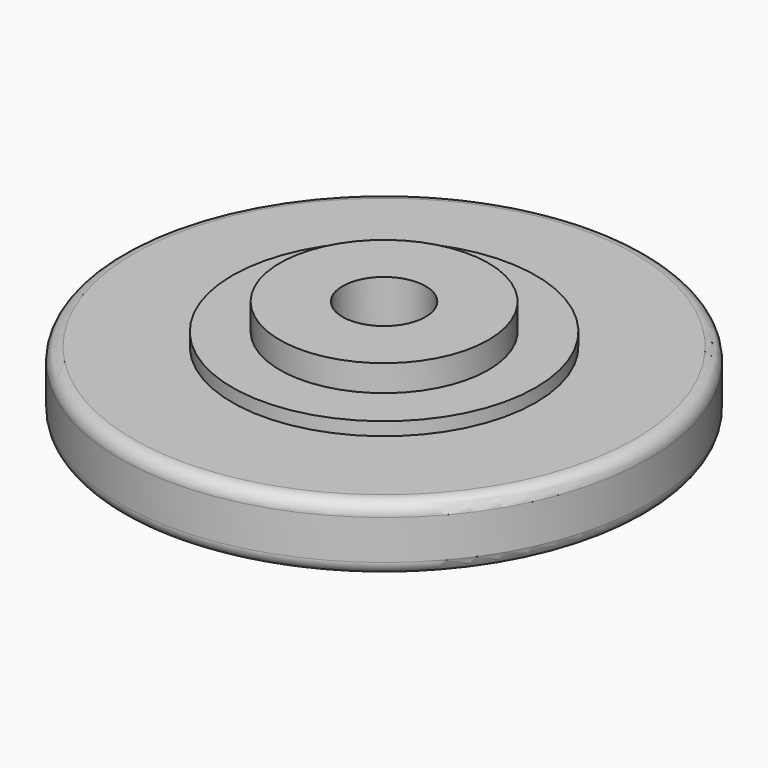
from build123d import *

# Parameters (mm, degrees)
F0_R           = 10
F1_DEPTH       = 2.5
F2_R           = 3.95
F3_DEPTH       = 1.5
F2_R_2         = 5.75
F4_DEPTH       = 0.5
F5_R           = 0.5
F6_D           = 3.15
F6_CSINK_D     = 6.72
F6_CSINK_ANGLE = 90


with BuildPart() as f1:
    # F0 (on Top) → F1 (new body)
    with BuildSketch(Plane.XY):
        Circle(F0_R)
    extrude(amount=F1_DEPTH)

    # F2 (on face) → F3 (join)
    with BuildSketch(Plane.XY.offset(2.5)):
        Circle(F2_R)
    extrude(amount=F3_DEPTH)

    # F2 (on face) → F4 (join)
    with BuildSketch(Plane.XY.offset(2.5)):
        Circle(F2_R_2)
        Circle(F2_R, mode=Mode.SUBTRACT)
    extrude(amount=F4_DEPTH)

    # F5
    f5_edges = [f1.edges().sort_by_distance(p)[0] for p in [
        (-10, 0, 0),
        (-10, 0, 2.5),
    ]]
    fillet(f5_edges, radius=F5_R)

    # F6 (through all)
    with Locations(Plane(origin=(0, 0, 0), x_dir=(1, 0, 0), z_dir=(0, 0, -1))):
        with Locations((0, 0)):
            CounterSinkHole(F6_D / 2, F6_CSINK_D / 2, counter_sink_angle=F6_CSINK_ANGLE)


solid = f1.part
